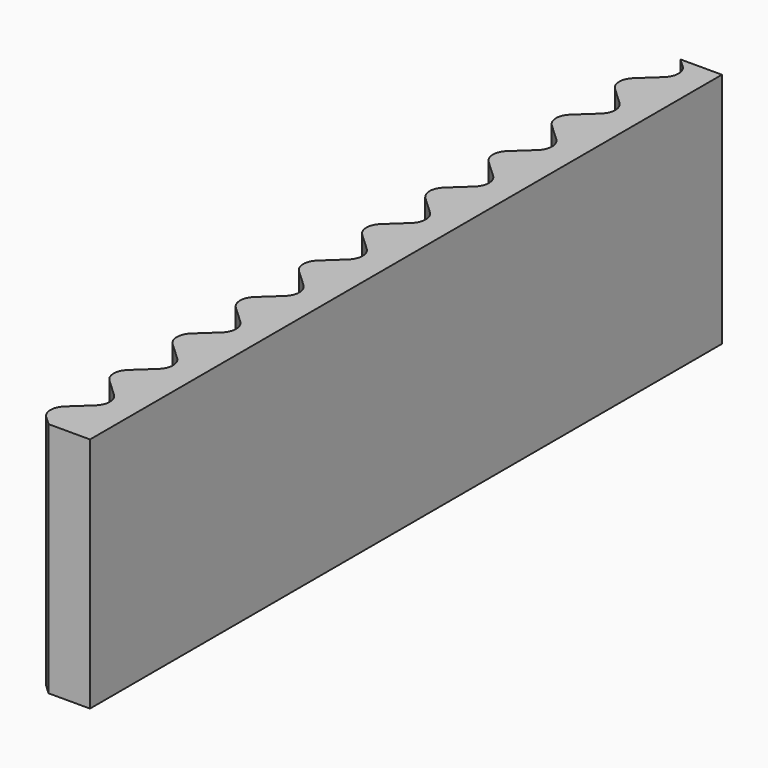
from build123d import *

# Parameters (mm, degrees)
F1_DEPTH = 3


with BuildPart() as f1:
    # F0 (on Top) → F1 (new body, symmetric)
    with BuildSketch(Plane.XY):
        with BuildLine():
            Line((0.7, 10), (0, 10))
            Line((0, 10), (-0.35, 10))
            Line((-0.35, 10), (-0.1274153453, 9.7927415345))
            ThreePointArc((-0.1274153453, 9.7927415345), (0, 9.5), (-0.1274153453, 9.2072584655))
            Line((-0.1274153453, 9.2072584655), (-0.5725846547, 8.7927415345))
            ThreePointArc((-0.5725846547, 8.7927415345), (-0.7, 8.5), (-0.5725846547, 8.2072584655))
            Line((-0.5725846547, 8.2072584655), (-0.35, 8))
            Line((-0.35, 8), (-0.1274153453, 7.7927415345))
            ThreePointArc((-0.1274153453, 7.7927415345), (0, 7.5), (-0.1274153453, 7.2072584655))
            Line((-0.1274153453, 7.2072584655), (-0.5725846547, 6.7927415345))
            ThreePointArc((-0.5725846547, 6.7927415345), (-0.7, 6.5), (-0.5725846547, 6.2072584655))
            Line((-0.5725846547, 6.2072584655), (-0.35, 6))
            Line((-0.35, 6), (-0.1274153453, 5.7927415345))
            ThreePointArc((-0.1274153453, 5.7927415345), (0, 5.5), (-0.1274153453, 5.2072584655))
            Line((-0.1274153453, 5.2072584655), (-0.5725846547, 4.7927415345))
            ThreePointArc((-0.5725846547, 4.7927415345), (-0.7, 4.5), (-0.5725846547, 4.2072584655))
            Line((-0.5725846547, 4.2072584655), (-0.35, 4))
            Line((-0.35, 4), (-0.1274153453, 3.7927415345))
            ThreePointArc((-0.1274153453, 3.7927415345), (0, 3.5), (-0.1274153453, 3.2072584655))
            Line((-0.1274153453, 3.2072584655), (-0.5725846547, 2.7927415345))
            ThreePointArc((-0.5725846547, 2.7927415345), (-0.7, 2.5), (-0.5725846547, 2.2072584655))
            Line((-0.5725846547, 2.2072584655), (-0.35, 2))
            Line((-0.35, 2), (-0.1274153453, 1.7927415345))
            ThreePointArc((-0.1274153453, 1.7927415345), (0, 1.5), (-0.1274153453, 1.2072584655))
            Line((-0.1274153453, 1.2072584655), (-0.5725846547, 0.7927415345))
            ThreePointArc((-0.5725846547, 0.7927415345), (-0.7, 0.5), (-0.5725846547, 0.2072584655))
            Line((-0.5725846547, 0.2072584655), (-0.35, 0))
            Line((-0.35, 0), (-0.1274153453, -0.2072584655))
            ThreePointArc((-0.1274153453, -0.2072584655), (0, -0.5), (-0.1274153453, -0.7927415345))
            Line((-0.1274153453, -0.7927415345), (-0.5725846547, -1.2072584655))
            ThreePointArc((-0.5725846547, -1.2072584655), (-0.7, -1.5), (-0.5725846547, -1.7927415345))
            Line((-0.5725846547, -1.7927415345), (-0.35, -2))
            Line((-0.35, -2), (-0.1274153453, -2.2072584655))
            ThreePointArc((-0.1274153453, -2.2072584655), (0, -2.5), (-0.1274153453, -2.7927415345))
            Line((-0.1274153453, -2.7927415345), (-0.5725846547, -3.2072584655))
            ThreePointArc((-0.5725846547, -3.2072584655), (-0.7, -3.5), (-0.5725846547, -3.7927415345))
            Line((-0.5725846547, -3.7927415345), (-0.35, -4))
            Line((-0.35, -4), (-0.1274153453, -4.2072584655))
            ThreePointArc((-0.1274153453, -4.2072584655), (0, -4.5), (-0.1274153453, -4.7927415345))
            Line((-0.1274153453, -4.7927415345), (-0.5725846547, -5.2072584655))
            ThreePointArc((-0.5725846547, -5.2072584655), (-0.7, -5.5), (-0.5725846547, -5.7927415345))
            Line((-0.5725846547, -5.7927415345), (-0.35, -6))
            Line((-0.35, -6), (-0.1274153453, -6.2072584655))
            ThreePointArc((-0.1274153453, -6.2072584655), (0, -6.5), (-0.1274153453, -6.7927415345))
            Line((-0.1274153453, -6.7927415345), (-0.5725846547, -7.2072584655))
            ThreePointArc((-0.5725846547, -7.2072584655), (-0.7, -7.5), (-0.5725846547, -7.7927415345))
            Line((-0.5725846547, -7.7927415345), (-0.35, -8))
            Line((-0.35, -8), (-0.1274153453, -8.2072584655))
            ThreePointArc((-0.1274153453, -8.2072584655), (0, -8.5), (-0.1274153453, -8.7927415345))
            Line((-0.1274153453, -8.7927415345), (-0.5725846547, -9.2072584655))
            ThreePointArc((-0.5725846547, -9.2072584655), (-0.7, -9.5), (-0.5725846547, -9.7927415345))
            Line((-0.5725846547, -9.7927415345), (-0.35, -10))
            Line((-0.35, -10), (0, -10))
            Line((0, -10), (0.7, -10))
            Line((0.7, -10), (0.7, 10))
        make_face()
    extrude(amount=F1_DEPTH, both=True)


solid = f1.part
